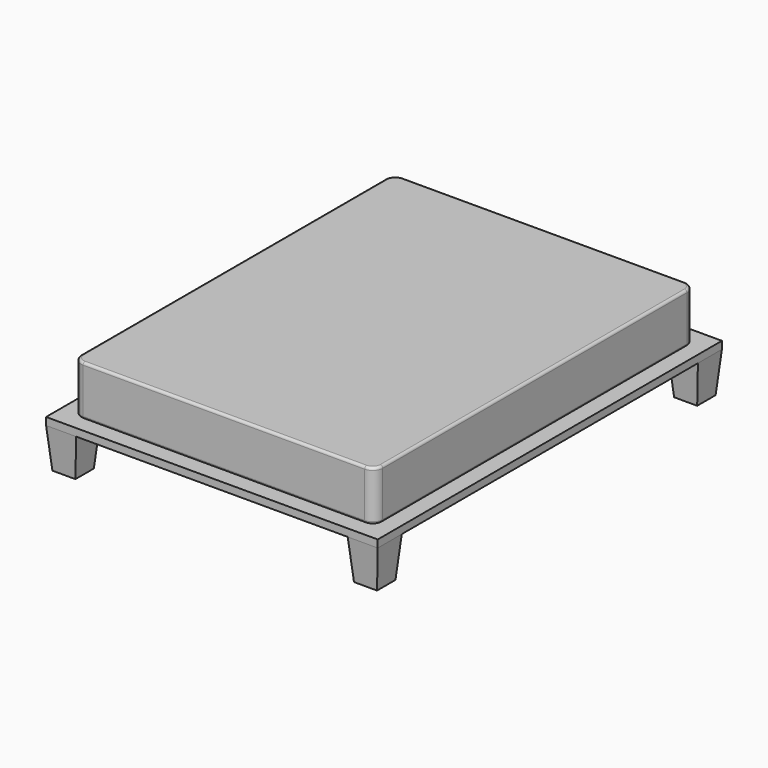
from build123d import *

# Parameters (mm, degrees)
F0_W     = 1530
F0_H     = 2030
F1_DEPTH = 254
F2_R     = 50.8
F3_R     = 12.7
F4_W     = 1682.4
F4_H     = 2182.4
F5_DEPTH = 38.1
F6_W     = 152.4
F6_H     = 152.4
F7_DEPTH = 203.2
F7_TAPER = 5


with BuildPart() as f1:
    # F0 (on Top) → F1 (new body)
    with BuildSketch(Plane.XY):
        Rectangle(F0_W, F0_H)
    extrude(amount=F1_DEPTH)

    # F2
    f2_edges = [f1.edges().sort_by_distance(p)[0] for p in [
        (-765, -1015, 127),
        (765, -1015, 127),
        (765, 1015, 127),
        (-765, 1015, 127),
    ]]
    fillet(f2_edges, radius=F2_R)

    # F3
    f3_edges = [f1.edges().sort_by_distance(p)[0] for p in [
        (0, -1015, 254),
        (-750.121024, -1000.121024, 254),
        (750.121024, -1000.121024, 254),
        (-765, 0, 254),
        (765, 0, 254),
        (-750.121024, 1000.121024, 254),
        (750.121024, 1000.121024, 254),
        (0, 1015, 254),
        (0, -1015, 0),
        (-750.121024, -1000.121024, 0),
        (750.121024, -1000.121024, 0),
        (-765, 0, 0),
        (765, 0, 0),
        (-750.121024, 1000.121024, 0),
        (750.121024, 1000.121024, 0),
        (0, 1015, 0),
    ]]
    fillet(f3_edges, radius=F3_R)

    # F4 (on face) → F5 (join)
    with BuildSketch(Plane(origin=(0, 0, 0), x_dir=(1, 0, 0), z_dir=(0, 0, -1))):
        Rectangle(F4_W, F4_H)
    extrude(amount=F5_DEPTH)

    # F6 (on face) → F7 (join)
    with BuildSketch(Plane(origin=(0, 0, -38.1), x_dir=(1, 0, 0), z_dir=(0, 0, -1))):
        with Locations((-765, 1015)):
            Rectangle(F6_W, F6_H)
        with Locations((765, 1015)):
            Rectangle(F6_W, F6_H)
        with Locations((765, -1015)):
            Rectangle(F6_W, F6_H)
        with Locations((-765, -1015)):
            Rectangle(F6_W, F6_H)
    extrude(amount=F7_DEPTH, taper=F7_TAPER)


solid = f1.part
